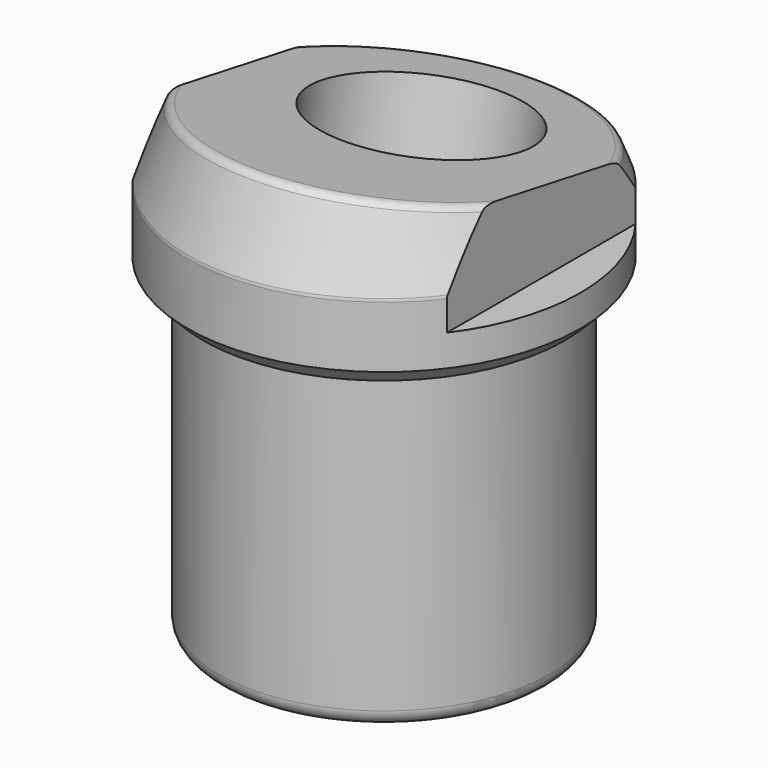
from build123d import *

# Parameters (mm, degrees)
F0_R           = 10.525
F1_DEPTH       = 20
F3_R           = 12.5
F4_DEPTH       = 10
F5_SIZE2       = 5
F5_SIZE        = 2
F8_SIZE        = 1
F9_R           = 0.5
F12_R          = 6.25
F13_DEPTH      = 29.8925289631
F13_DEPTH_BACK = 3.9949082022
F14_W          = 35.6293991208
F14_H          = 33.7468273938
F15_DEPTH      = 3.9949082022
F16_R          = 0.5
F18_W          = 42.0981385947
F18_H          = 52.5076624169
F18_W_2        = 21.5321744272
F18_H_2        = 55.8203060705
F19_DEPTH      = 6.9380379737
F20_R          = 1


with BuildPart() as f1:
    # F0 (on Top) → F1 (new body)
    with BuildSketch(Plane.XY):
        Circle(F0_R)
    extrude(amount=-F1_DEPTH)

    # F3 (on face) → F4 (join)
    with BuildSketch(Plane.XY):
        Circle(F3_R)
    extrude(amount=F4_DEPTH)

    # F5
    f5_edges = [f1.edges().sort_by_distance(p)[0] for p in [
        (-12.5, 0, 10),
    ]]
    f5_side = f1.faces().sort_by_distance((0, 0, 10))[0]
    chamfer(f5_edges, length=F5_SIZE, length2=F5_SIZE2, reference=f5_side)

    # F8
    f8_edges = [f1.edges().sort_by_distance(p)[0] for p in [
        (-12.5, 0, 0),
    ]]
    chamfer(f8_edges, length=F8_SIZE)

    # F9
    f9_edges = [f1.edges().sort_by_distance(p)[0] for p in [
        (-12.5, 0, 5),
    ]]
    fillet(f9_edges, radius=F9_R)

    # F12 (on face) → F13 (cut, two sides)
    with BuildSketch(Plane(origin=(0, 1.3934869758, 7.9028573515), x_dir=(1, 0, 0), z_dir=(0, -0.1736481777, -0.984807753))) as f13_sk:
        with Locations((0, -1.60399963)):
            Circle(F12_R)
    extrude(amount=F13_DEPTH, mode=Mode.SUBTRACT)
    extrude(f13_sk.sketch, amount=-F13_DEPTH_BACK, mode=Mode.SUBTRACT)

    # F14 (on face) → F15 (cut, through all)
    with BuildSketch(Plane(origin=(0, 1.3934869758, 7.9028573515), x_dir=(1, 0, 0), z_dir=(0, -0.1736481777, -0.984807753))):
        with Locations((0.3942959011, 1.4900509268)):
            Rectangle(F14_W, F14_H)
    extrude(amount=-F15_DEPTH, mode=Mode.SUBTRACT)

    # F16
    f16_edges = [f1.edges().sort_by_distance(p)[0] for p in [
        (7.715975, -7.436279, 9.459783),
        (-7.715975, 9.029819, 6.556366),
    ]]
    fillet(f16_edges, radius=F16_R)

    # F18 (on offset) → F19 (cut, through all)
    with BuildSketch(Plane(origin=(0, 0, 3), x_dir=(1, 0, 0), z_dir=(0, 0, -1))):
        with Locations((31.0490692973, 0)):
            Rectangle(F18_W, F18_H)
        with Locations((-20.7660872136, 0)):
            Rectangle(F18_W_2, F18_H_2)
    extrude(amount=-F19_DEPTH, mode=Mode.SUBTRACT)

    # F20
    f20_edges = [f1.edges().sort_by_distance(p)[0] for p in [
        (-10.525, 0, -20),
    ]]
    fillet(f20_edges, radius=F20_R)


solid = f1.part
